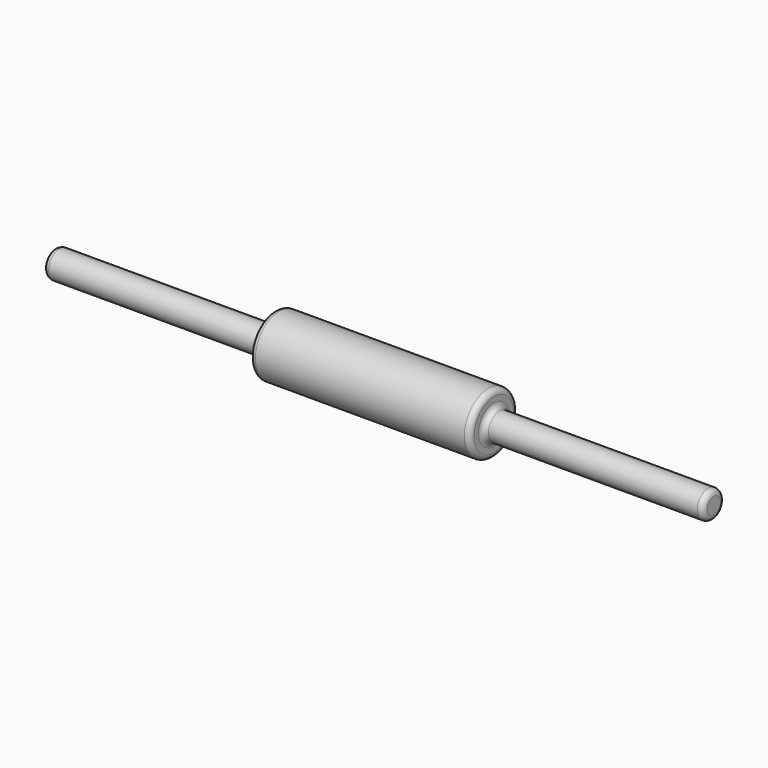
from build123d import *

# Parameters (mm, degrees)
F0_R     = 11
F0_R_2   = 5
F1_DEPTH = 40
F2_DEPTH = 120
F3_R     = 2


with BuildPart() as f1:
    # F0 (on Right) → F1 (new body, symmetric)
    with BuildSketch(Plane.YZ):
        Circle(F0_R)
        Circle(F0_R_2, mode=Mode.SUBTRACT)
        Circle(F0_R_2)
    extrude(amount=F1_DEPTH, both=True)

    # F0 (on Right) → F2 (join, symmetric)
    with BuildSketch(Plane.YZ):
        Circle(F0_R_2)
    extrude(amount=F2_DEPTH, both=True)

    # F3
    f3_edges = [f1.edges().sort_by_distance(p)[0] for p in [
        (-40, -11, 0),
        (-40, -5, 0),
        (40, -11, 0),
        (40, -5, 0),
        (120, -5, 0),
        (-120, -5, 0),
    ]]
    fillet(f3_edges, radius=F3_R)


solid = f1.part
